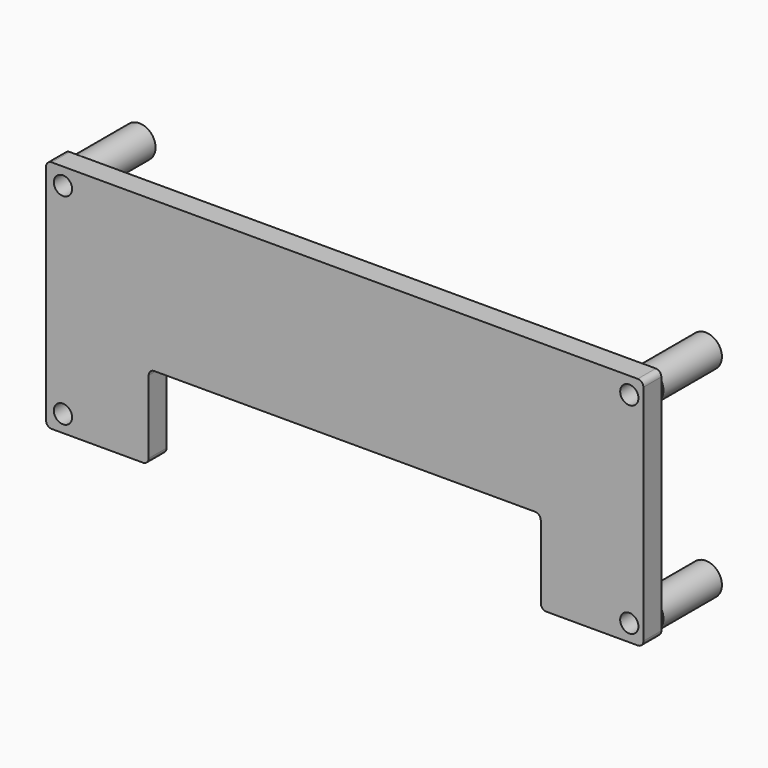
from build123d import *

# Parameters (mm, degrees)
SKETCH002_R                = 2.875
SKETCH002_R_2              = 1.625
EXTRUDE002_DEPTH           = 13
EXTRUDE002_PLACEMENT_ANGLE = 270
SKETCH001_R                = 1.625
EXTRUDE001_DEPTH           = 4
EXTRUDE001_PLACEMENT_ANGLE = 270
FILLET_R                   = 1


with BuildPart() as spacer:
    # Sketch002 → Extrude002 (new body)
    with BuildSketch(Plane.YZ):
        with Locations((3, 38.75)):
            Circle(SKETCH002_R)
        with Locations((3, 38.75)):
            Circle(SKETCH002_R_2, mode=Mode.SUBTRACT)
        with Locations((3, 3)):
            Circle(SKETCH002_R)
        with Locations((3, 3)):
            Circle(SKETCH002_R_2, mode=Mode.SUBTRACT)
        with Locations((103.75, 3)):
            Circle(SKETCH002_R)
        with Locations((103.75, 3)):
            Circle(SKETCH002_R_2, mode=Mode.SUBTRACT)
        with Locations((103.75, 38.75)):
            Circle(SKETCH002_R)
        with Locations((103.75, 38.75)):
            Circle(SKETCH002_R_2, mode=Mode.SUBTRACT)
    extrude(amount=EXTRUDE002_DEPTH)


with BuildPart() as spacer_1:
    # Extrude002 placement: moved
    add(spacer.part.moved(Location((0, -2, 0))).rotate(Axis((0, -2, 0), (0, 0, 1)), EXTRUDE002_PLACEMENT_ANGLE))


with BuildPart() as top_fillet:
    # Sketch001 → Extrude001 (new body)
    with BuildSketch(Plane.YZ):
        Polygon((106.25, 0), (106.25, 41.75), (0, 41.75), (0, 0), (18.25, 0), (18.25, 15), (88, 15), (88, 0), align=None)
        with Locations((3, 3)):
            Circle(SKETCH001_R, mode=Mode.SUBTRACT)
        with Locations((3, 38.75)):
            Circle(SKETCH001_R, mode=Mode.SUBTRACT)
        with Locations((103.75, 38.75)):
            Circle(SKETCH001_R, mode=Mode.SUBTRACT)
        with Locations((103.75, 3)):
            Circle(SKETCH001_R, mode=Mode.SUBTRACT)
    extrude(amount=EXTRUDE001_DEPTH)


with BuildPart() as top_fillet_1:
    # Extrude001 placement: moved
    add(top_fillet.part.moved(Location((0, -15, 0))).rotate(Axis((0, -15, 0), (0, 0, 1)), EXTRUDE001_PLACEMENT_ANGLE))

    # Fusion: union spacer
    add(spacer_1.part)

    # Fillet
    fillet_edges = [top_fillet_1.edges().sort_by_distance(p)[0] for p in [
        (106.25, -17, 0),
        (106.25, -17, 41.75),
        (88, -17, 0),
        (0, -17, 41.75),
        (88, -17, 15),
        (0, -17, 0),
        (18.25, -17, 15),
        (18.25, -17, 0),
    ]]
    fillet(fillet_edges, radius=FILLET_R)


solid = top_fillet_1.part
